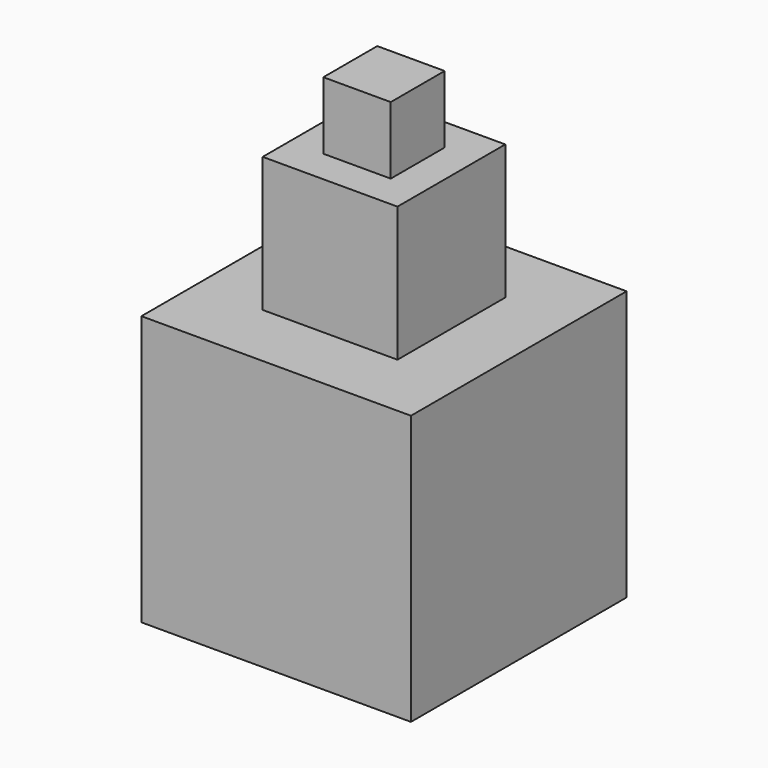
from build123d import *

# Parameters (mm, degrees)
F0_W     = 2032
F0_H     = 2032
F1_DEPTH = 2032
F2_W     = 1016
F2_H     = 1016
F3_DEPTH = 1016
F4_W     = 508
F4_H     = 508
F5_DEPTH = 508


with BuildPart() as f1:
    # F0 (on Right) → F1 (new body)
    with BuildSketch(Plane.YZ):
        Rectangle(F0_W, F0_H)
    extrude(amount=F1_DEPTH)

    # F2 (on face) → F3 (join)
    with BuildSketch(Plane.XY.offset(1016)):
        with Locations((1016, 0)):
            Rectangle(F2_W, F2_H)
    extrude(amount=F3_DEPTH)

    # F4 (on face) → F5 (join)
    with BuildSketch(Plane.XY.offset(2032)):
        with Locations((1016, 0)):
            Rectangle(F4_W, F4_H)
    extrude(amount=F5_DEPTH)


solid = f1.part
